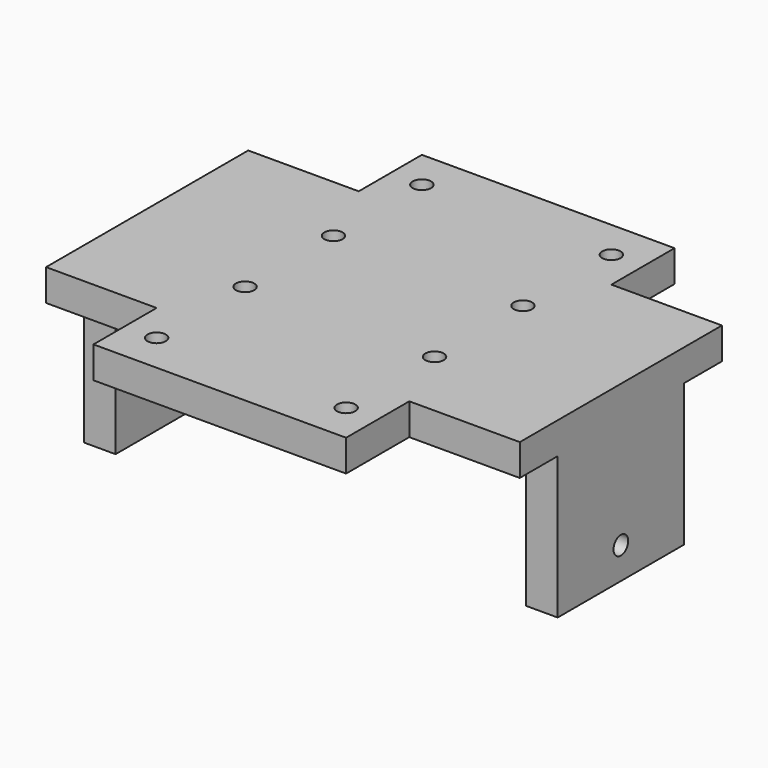
from build123d import *

# Parameters (mm, degrees)
SKETCH043_W         = 150
SKETCH043_H         = 80
SKETCH043_W_2       = 80
SKETCH043_H_2       = 25
PAD021_DEPTH        = 10
HOLE020_D           = 5.8
HOLE020_DEPTH       = 25
HOLE020_CBORE_D     = 11.2
HOLE020_CBORE_DEPTH = 5.4
SKETCH044_W         = 10
SKETCH044_H         = 50
PAD022_DEPTH        = 45
SKETCH045_R         = 2.9
HOLE021_DEPTH       = 75.001
SKETCH046_R         = 2.9
HOLE022_DEPTH       = 75.001
SKETCH047_W         = 30
SKETCH047_H         = 20
PAD023_DEPTH        = 10
SKETCH048_R         = 2.1
HOLE023_DEPTH       = 45.001


with BuildPart() as part:
    # Sketch043 → Pad021 (new body)
    with BuildSketch(Plane.XY):
        Rectangle(SKETCH043_W, SKETCH043_H)
        with Locations((0, 52.5)):
            Rectangle(SKETCH043_W_2, SKETCH043_H_2)
        with Locations((0, -52.5)):
            Rectangle(SKETCH043_W_2, SKETCH043_H_2)
    extrude(amount=PAD021_DEPTH)

    # Hole020
    with Locations(Plane(origin=(0, 0, 0), x_dir=(1, 0, 0), z_dir=(0, 0, -1))):
        with Locations((-30, -52.5), (30, -52.5), (-30, -17.5), (30, -17.5), (-30, 17.5), (30, 17.5), (-30, 52.5), (30, 52.5)):
            CounterBoreHole(HOLE020_D / 2, HOLE020_CBORE_D / 2, HOLE020_CBORE_DEPTH, depth=HOLE020_DEPTH)

    # Sketch044 → Pad022 (join)
    with BuildSketch(Plane.XY):
        with Locations((-70, 0)):
            Rectangle(SKETCH044_W, SKETCH044_H)
        with Locations((70, 0)):
            Rectangle(SKETCH044_W, SKETCH044_H)
    extrude(amount=-PAD022_DEPTH)

    # Sketch045 → Hole021 (cut, through all)
    with BuildSketch(Plane.YZ):
        with Locations((0, -35)):
            Circle(SKETCH045_R)
    extrude(amount=-HOLE021_DEPTH, mode=Mode.SUBTRACT)

    # Sketch046 → Hole022 (cut, through all)
    with BuildSketch(Plane.YZ):
        with Locations((0, -35)):
            Circle(SKETCH046_R)
    extrude(amount=HOLE022_DEPTH, mode=Mode.SUBTRACT)

    # Sketch047 → Pad023 (join)
    with BuildSketch(Plane.XY):
        with Locations((0, -35)):
            Rectangle(SKETCH047_W, SKETCH047_H)
    extrude(amount=-PAD023_DEPTH)

    # Sketch048 → Hole023 (cut, through all)
    with BuildSketch(Plane.XY):
        with Locations((0, -35)):
            Circle(SKETCH048_R)
    extrude(amount=-HOLE023_DEPTH, mode=Mode.SUBTRACT)


solid = part.part
